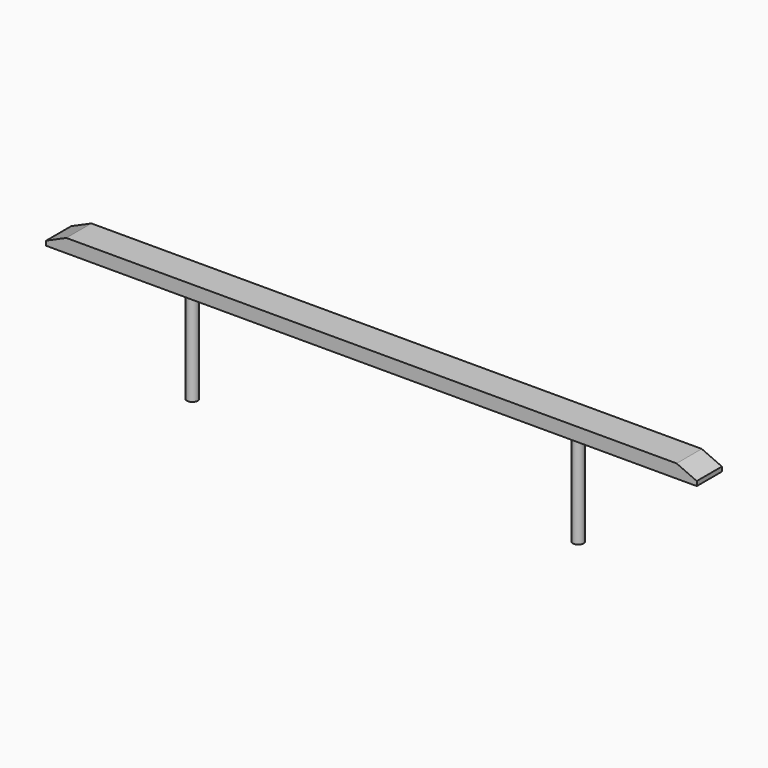
from build123d import *

# Parameters (mm, degrees)
F1_DEPTH = 35
F2_R     = 6
F3_DEPTH = 110


with BuildPart() as f1:
    # F0 (on Front) → F1 (new body)
    with BuildSketch(Plane.XZ):
        Polygon((702.5, 0), (22.5, 0), (0, -10), (0, -15), (725, -15), (725, -10), align=None)
    extrude(amount=F1_DEPTH)

    # F2 (on face) → F3 (join)
    with BuildSketch(Plane(origin=(0, 0, -15), x_dir=(1, 0, 0), z_dir=(0, 0, -1))):
        with Locations((147.5, 15.75)):
            Circle(F2_R)
        with Locations((577.5, 15.75)):
            Circle(F2_R)
    extrude(amount=F3_DEPTH)


solid = f1.part
